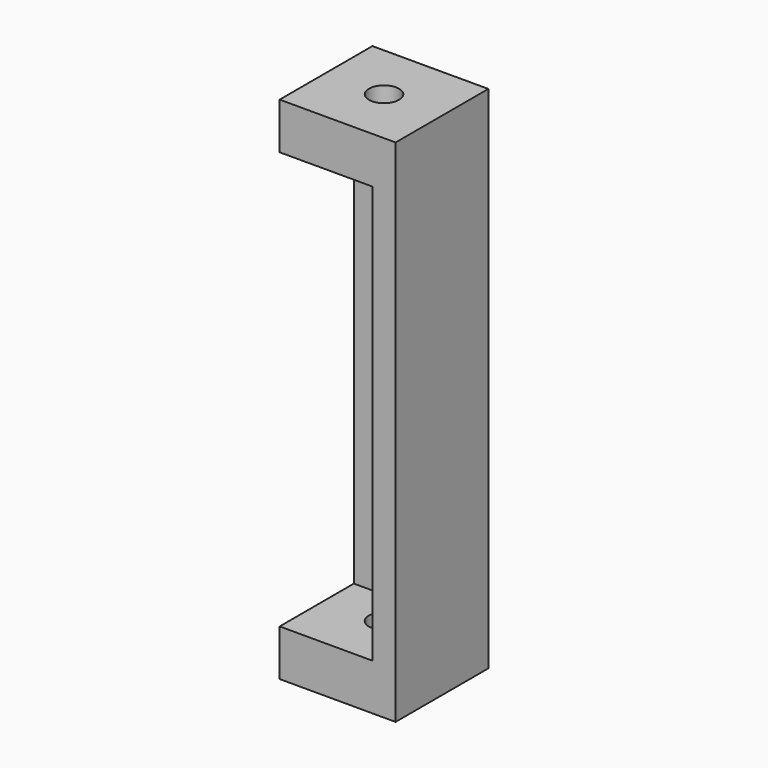
from build123d import *

# Parameters (mm, degrees)
F0_W     = 25
F0_H     = 25
F1_DEPTH = 110
F2_W     = 27.421856
F2_H     = 90
F3_DEPTH = 20
F4_R     = 3.25
F5_DEPTH = 110.001


with BuildPart() as f1:
    # F0 (on Top) → F1 (new body)
    with BuildSketch(Plane.XY):
        with Locations((-25.848038, 19.508659)):
            Rectangle(F0_W, F0_H)
    extrude(amount=F1_DEPTH)

    # F2 (on face) → F3 (cut)
    with BuildSketch(Plane.XZ.offset(-7.008659)):
        with Locations((-32.058966, 55)):
            Rectangle(F2_W, F2_H)
    extrude(amount=-F3_DEPTH, mode=Mode.SUBTRACT)

    # F4 (on face) → F5 (cut, through all)
    with BuildSketch(Plane.XY.offset(110)):
        with Locations((-25.848038, 19.508659)):
            Circle(F4_R)
    extrude(amount=-F5_DEPTH, mode=Mode.SUBTRACT)


solid = f1.part
